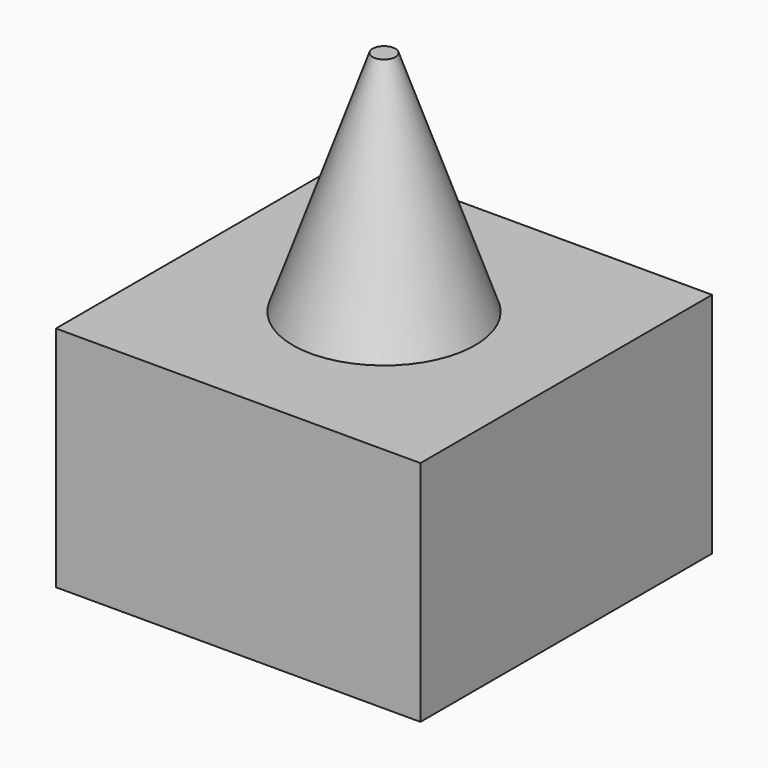
from build123d import *

# Parameters (mm, degrees)
BOX001_W     = 10
BOX001_H     = 10
BOX001_DEPTH = 8
BOX_W        = 16
BOX_H        = 16
BOX_DEPTH    = 10


with BuildPart() as cube001:
    # Box001 → Box001 (new body)
    with BuildSketch(Plane(origin=(-5, -5, 0), x_dir=(1, 0, 0), z_dir=(0, 0, 1))):
        with Locations((5, 5)):
            Rectangle(BOX001_W, BOX001_H)
    extrude(amount=BOX001_DEPTH)


with BuildPart() as cone:
    # Cone → Cone (revolve)
    with BuildSketch(Plane(origin=(0, 0, 20), x_dir=(-1, 0, 0), z_dir=(0, -1, 0))):
        Polygon((0, 0), (0.5, 0), (4, 10), (0, 10), align=None)
    revolve(axis=Axis((0, 0, 20), (0, 0, -1)))


with BuildPart() as cut:
    # Box → Box (new body)
    with BuildSketch(Plane(origin=(-8, -8, 0), x_dir=(1, 0, 0), z_dir=(0, 0, 1))):
        with Locations((8, 8)):
            Rectangle(BOX_W, BOX_H)
    extrude(amount=BOX_DEPTH)

    # Fusion: union Cone
    add(cone.part)

    # Cut: cut Cube001
    add(cube001.part, mode=Mode.SUBTRACT)


solid = cut.part
